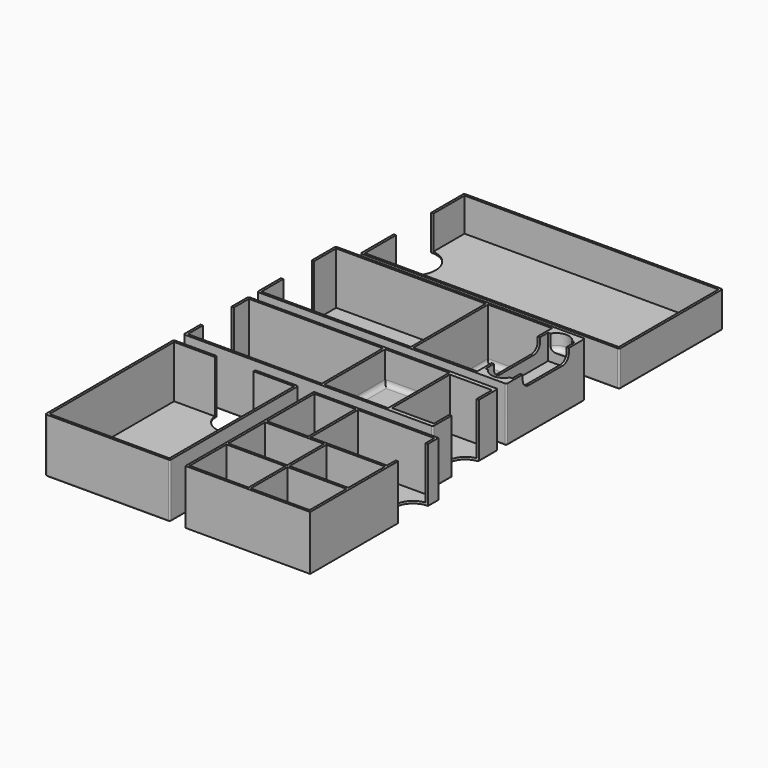
from build123d import *

# Parameters (mm, degrees)
SKETCH_W        = 166
SKETCH_H        = 83
PAD_DEPTH       = 23
POCKET_DEPTH    = 25
SKETCH016_W     = 163
SKETCH016_H     = 80
POCKET013_DEPTH = 21.5
FILLET_R        = 1
PAD001_DEPTH    = 35
SKETCH004_W     = 96
SKETCH004_H     = 60
POCKET002_DEPTH = 33.5
SKETCH005_W     = 17
SKETCH005_H     = 50
POCKET003_DEPTH = 16
SKETCH006_W     = 41
SKETCH006_H     = 60
POCKET004_DEPTH = 33.5
POCKET005_DEPTH = 25
POCKET006_DEPTH = 10
FILLET001_R     = 3
FILLET002_R     = 1
FILLET005_R     = 3
PAD002_DEPTH    = 35
SKETCH010_W     = 86
SKETCH010_H     = 49
SKETCH010_W_2   = 27
SKETCH010_H_2   = 46.5
POCKET007_DEPTH = 33.5
FILLET003_R     = 1
SKETCH011_W     = 41
SKETCH011_H     = 49
POCKET008_DEPTH = 20
FILLET004_R     = 3
PAD003_DEPTH    = 35
SKETCH013_W     = 77
SKETCH013_H     = 100
POCKET009_DEPTH = 33.5
FILLET006_R     = 1
PAD004_DEPTH    = 35
BINDER_W        = 38
BINDER_H        = 49
POCKET010_DEPTH = 33.5
BINDER001_W     = 38
BINDER001_H     = 26.5
POCKET011_DEPTH = 25
FILLET007_R     = 3
BINDER002_W     = 29.5
BINDER002_H     = 37.75
POCKET012_DEPTH = 25
FILLET008_R     = 4


with BuildPart() as ballrooms:
    # Sketch → Pad (new body)
    with BuildSketch(Plane.XY):
        with Locations((83, 41.5)):
            Rectangle(SKETCH_W, SKETCH_H)
    extrude(amount=PAD_DEPTH)

    # Sketch001 (on Face6 of Pad) → Pocket (cut)
    with BuildSketch(Plane.XY.offset(23)):
        with BuildLine():
            ThreePointArc((0, 26.5), (15, 41.5), (0, 56.5))
            Line((0, 56.5), (0, 26.5))
        make_face()
    extrude(amount=-POCKET_DEPTH, mode=Mode.SUBTRACT)

    # Sketch016 (on Face5 of Pocket) → Pocket013 (cut)
    with BuildSketch(Plane.XY.offset(23)):
        with Locations((83, 41.5)):
            Rectangle(SKETCH016_W, SKETCH016_H)
    extrude(amount=-POCKET013_DEPTH, mode=Mode.SUBTRACT)

    # Fillet
    fillet_edges = [ballrooms.edges().sort_by_distance(p)[0] for p in [
        (0, 13.25, 0),
        (15, 41.5, 0),
        (0, 69.75, 0),
        (83, 83, 0),
        (166, 41.5, 0),
        (83, 0, 0),
        (0, 0, 11.5),
        (166, 0, 11.5),
        (0, 83, 11.5),
        (166, 83, 11.5),
    ]]
    fillet(fillet_edges, radius=FILLET_R)


with BuildPart() as solo:
    # Sketch003 → Pad001 (new body)
    with BuildSketch(Plane.XY):
        with BuildLine():
            Line((0, -20), (160, -20))
            Line((160, -20), (160, -83))
            Line((160, -83), (0, -83))
            Line((0, -83), (0, -64))
            ThreePointArc((0, -64), (12.5, -51.5), (0, -39))
            Line((0, -39), (0, -20))
        make_face()
    extrude(amount=PAD001_DEPTH)

    # Sketch004 (on Face8 of Pad001) → Pocket002 (cut)
    with BuildSketch(Plane.XY.offset(35)):
        with Locations((49.5, -51.5)):
            Rectangle(SKETCH004_W, SKETCH004_H)
    extrude(amount=-POCKET002_DEPTH, mode=Mode.SUBTRACT)

    # Sketch005 (on Face5 of Pocket002) → Pocket003 (cut)
    with BuildSketch(Plane.XY.offset(35)):
        with Locations((150, -51.5)):
            Rectangle(SKETCH005_W, SKETCH005_H)
    extrude(amount=-POCKET003_DEPTH, mode=Mode.SUBTRACT)

    # Sketch006 (on Face5 of Pocket003) → Pocket004 (cut)
    with BuildSketch(Plane.XY.offset(35)):
        with Locations((119.5, -51.5)):
            Rectangle(SKETCH006_W, SKETCH006_H)
    extrude(amount=-POCKET004_DEPTH, mode=Mode.SUBTRACT)

    # Sketch007 (on Face3 of Pocket004) → Pocket005 (cut)
    with BuildSketch(Plane.YZ.offset(160)):
        with BuildLine():
            Line((-70, 35), (-33, 35))
            Line((-33, 35), (-33, 32))
            ThreePointArc((-38, 27), (-34.464466, 28.464466), (-33, 32))
            Line((-38, 27), (-65, 27))
            ThreePointArc((-70, 32), (-68.535534, 28.464466), (-65, 27))
            Line((-70, 32), (-70, 35))
        make_face()
    extrude(amount=-POCKET005_DEPTH, mode=Mode.SUBTRACT)

    # Sketch008 (on Face5 of Pocket005) → Pocket006 (cut)
    with BuildSketch(Plane.XY.offset(35)):
        with BuildLine():
            ThreePointArc((156.928203, -26.5), (150, -22.5), (143.071797, -26.5))
            Line((143.071797, -26.5), (156.928203, -26.5))
        make_face()
        with BuildLine():
            ThreePointArc((143.071797, -76.5), (150, -80.5), (156.928203, -76.5))
            Line((143.071797, -76.5), (156.928203, -76.5))
        make_face()
    extrude(amount=-POCKET006_DEPTH, mode=Mode.SUBTRACT)

    # Fillet001
    fillet001_edges = [solo.edges().sort_by_distance(p)[0] for p in [
        (150, -80.5, 25),
        (150, -22.5, 25),
    ]]
    fillet(fillet001_edges, radius=FILLET001_R)

    # Fillet002
    fillet002_edges = [solo.edges().sort_by_distance(p)[0] for p in [
        (160, -20, 17.5),
        (160, -83, 17.5),
        (160, -51.5, 0),
        (0, -83, 17.5),
        (0, -20, 17.5),
        (0, -29.5, 0),
        (0, -73.5, 0),
        (80, -83, 0),
        (80, -20, 0),
    ]]
    fillet(fillet002_edges, radius=FILLET002_R)

    # Fillet005
    fillet005_edges = [solo.edges().sort_by_distance(p)[0] for p in [
        (119.5, -21.5, 1.5),
        (140, -51.5, 1.5),
        (119.5, -81.5, 1.5),
        (99, -51.5, 1.5),
    ]]
    fillet(fillet005_edges, radius=FILLET005_R)


with BuildPart() as body002:
    # Sketch009 → Pad002 (new body)
    with BuildSketch(Plane.XY):
        with BuildLine():
            Line((0, -90), (160, -90))
            Line((160, -90), (160, -105))
            ThreePointArc((160, -105), (149, -116), (160, -127))
            Line((160, -127), (160, -142))
            Line((160, -142), (0, -142))
            Line((0, -142), (0, -128.5))
            ThreePointArc((0, -128.5), (12.5, -116), (0, -103.5))
            Line((0, -103.5), (0, -90))
        make_face()
    extrude(amount=PAD002_DEPTH)

    # Sketch010 (on Face10 of Pad002) → Pocket007 (cut)
    with BuildSketch(Plane.XY.offset(35)):
        with Locations((44.5, -116)):
            Rectangle(SKETCH010_W, SKETCH010_H)
        with Locations((145, -116)):
            Rectangle(SKETCH010_W_2, SKETCH010_H_2)
    extrude(amount=-POCKET007_DEPTH, mode=Mode.SUBTRACT)

    # Fillet003
    fillet003_edges = [body002.edges().sort_by_distance(p)[0] for p in [
        (0, -142, 17.5),
        (0, -135.25, 0),
        (0, -96.75, 0),
        (0, -90, 17.5),
        (80, -90, 0),
        (80, -142, 0),
        (160, -134.5, 0),
        (160, -97.5, 0),
        (160, -142, 17.5),
        (160, -90, 17.5),
    ]]
    fillet(fillet003_edges, radius=FILLET003_R)

    # Sketch011 (on Face2 of Fillet003) → Pocket008 (cut)
    with BuildSketch(Plane.XY.offset(35)):
        with Locations((109.5, -116)):
            Rectangle(SKETCH011_W, SKETCH011_H)
    extrude(amount=-POCKET008_DEPTH, mode=Mode.SUBTRACT)

    # Fillet004
    fillet004_edges = [body002.edges().sort_by_distance(p)[0] for p in [
        (109.5, -91.5, 15),
        (130, -116, 15),
        (109.5, -140.5, 15),
        (89, -116, 15),
    ]]
    fillet(fillet004_edges, radius=FILLET004_R)


with BuildPart() as body003:
    # Sketch012 → Pad003 (new body)
    with BuildSketch(Plane.XY):
        with BuildLine():
            Line((0, -150), (27.5, -150))
            ThreePointArc((27.5, -150), (40, -162.5), (52.5, -150))
            Line((52.5, -150), (80, -150))
            Line((80, -150), (80, -253))
            Line((80, -253), (0, -253))
            Line((0, -253), (0, -150))
        make_face()
    extrude(amount=PAD003_DEPTH)

    # Sketch013 (on Face8 of Pad003) → Pocket009 (cut)
    with BuildSketch(Plane.XY.offset(35)):
        with Locations((40, -201.5)):
            Rectangle(SKETCH013_W, SKETCH013_H)
    extrude(amount=-POCKET009_DEPTH, mode=Mode.SUBTRACT)

    # Fillet006
    fillet006_edges = [body003.edges().sort_by_distance(p)[0] for p in [
        (0, -253, 17.5),
        (0, -150, 17.5),
        (80, -253, 17.5),
        (80, -150, 17.5),
        (13.75, -150, 0),
        (40, -162.5, 0),
        (66.25, -150, 0),
        (80, -201.5, 0),
        (40, -253, 0),
        (0, -201.5, 0),
    ]]
    fillet(fillet006_edges, radius=FILLET006_R)


with BuildPart() as body004:
    # Sketch014 → Pad004 (new body)
    with BuildSketch(Plane.XY):
        with BuildLine():
            Line((90, -150), (170, -150))
            Line((170, -150), (170, -158.5))
            ThreePointArc((170, -158.5), (158, -170.5), (170, -182.5))
            Line((170, -182.5), (170, -253))
            Line((170, -253), (90, -253))
            Line((90, -253), (90, -150))
        make_face()
    extrude(amount=PAD004_DEPTH)

    # Binder → Pocket010 (cut)
    with BuildSketch(Plane(origin=(144, -170.5, 35), x_dir=(0, 1, 0), z_dir=(0, 0, 1))):
        Rectangle(BINDER_W, BINDER_H)
    extrude(amount=-POCKET010_DEPTH, mode=Mode.SUBTRACT)

    # Binder001 → Pocket011 (cut)
    with BuildSketch(Plane(origin=(104.75, -170.5, 35), x_dir=(0, 1, 0), z_dir=(0, 0, 1))):
        Rectangle(BINDER001_W, BINDER001_H)
    extrude(amount=-POCKET011_DEPTH, mode=Mode.SUBTRACT)

    # Fillet007
    fillet007_edges = [body004.edges().sort_by_distance(p)[0] for p in [
        (104.75, -151.5, 10),
        (118, -170.5, 10),
        (104.75, -189.5, 10),
        (91.5, -170.5, 10),
    ]]
    fillet(fillet007_edges, radius=FILLET007_R)

    # Binder002 → Pocket012 (cut)
    with BuildSketch(Plane(origin=(110.375, -205.75, 35), x_dir=(0, 1, 0), z_dir=(0, 0, 1))):
        Rectangle(BINDER002_W, BINDER002_H)
        with Locations((-31, 0)):
            Rectangle(BINDER002_W, BINDER002_H)
        with Locations((0, -39.25)):
            Rectangle(BINDER002_W, BINDER002_H)
        with Locations((-31, -39.25)):
            Rectangle(BINDER002_W, BINDER002_H)
    extrude(amount=-POCKET012_DEPTH, mode=Mode.SUBTRACT)

    # Fillet008
    fillet008_edges = [body004.edges().sort_by_distance(p)[0] for p in [
        (149.625, -191, 10),
        (168.5, -205.75, 10),
        (149.625, -220.5, 10),
        (130.75, -205.75, 10),
        (149.625, -222, 10),
        (168.5, -236.75, 10),
        (149.625, -251.5, 10),
        (130.75, -236.75, 10),
        (110.375, -222, 10),
        (129.25, -236.75, 10),
        (110.375, -251.5, 10),
        (91.5, -236.75, 10),
        (129.25, -205.75, 10),
        (110.375, -220.5, 10),
        (91.5, -205.75, 10),
        (110.375, -191, 10),
    ]]
    fillet(fillet008_edges, radius=FILLET008_R)


solid = Compound([ballrooms.part, solo.part, body002.part, body003.part, body004.part])
